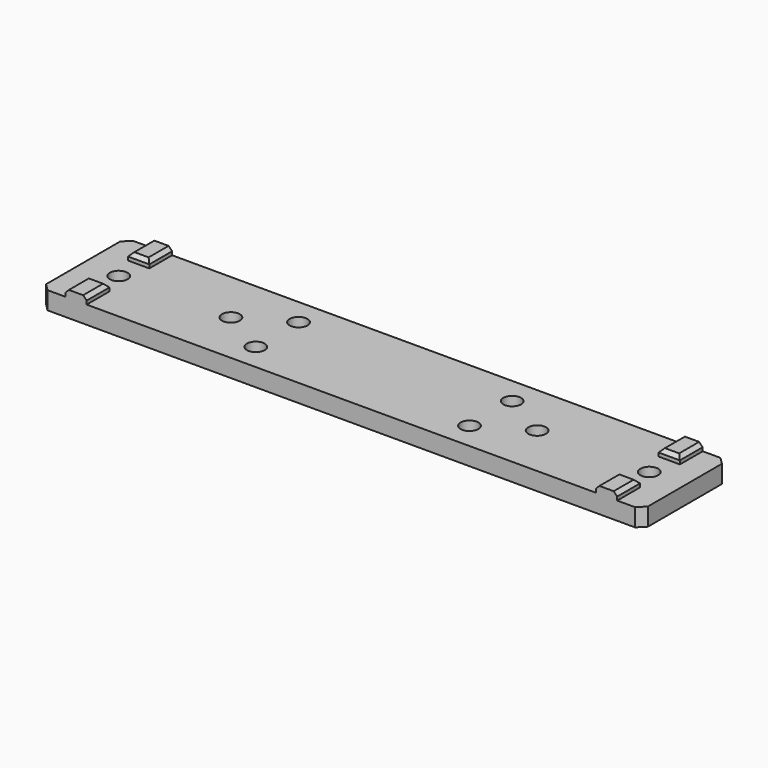
from build123d import *

# Parameters (mm, degrees)
F0_R     = 2.5
F0_R_2   = 4
F1_DEPTH = 5
F0_W     = 6
F0_H     = 8
F2_DEPTH = 7
F3_SIZE  = 1
F4_DEPTH = 5
F5_SIZE  = 2


with BuildPart() as f1:
    # F0 (on Top) → F1 (new body)
    with BuildSketch(Plane.XY):
        Polygon((-77.5, 15), (-84.5, 15), (-84.5, -15), (-77.5, -15), (-77.5, -7), (-71.5, -7), (-71.5, -15), (71.5, -15), (71.5, -7), (77.5, -7), (77.5, -15), (84.5, -15), (84.5, 15), (77.5, 15), (77.5, 7), (71.5, 7), (71.5, 15), (-71.5, 15), (-71.5, 7), (-77.5, 7), align=None)
        with Locations((-30, -7.5)):
            Circle(F0_R, mode=Mode.SUBTRACT)
        with Locations((30, -7.5)):
            Circle(F0_R, mode=Mode.SUBTRACT)
        with Locations((-74.5, 0)):
            Circle(F0_R, mode=Mode.SUBTRACT)
        with Locations((-43, 0)):
            Circle(F0_R_2, mode=Mode.SUBTRACT)
        with Locations((-30, 7.5)):
            Circle(F0_R, mode=Mode.SUBTRACT)
        with Locations((43, 0)):
            Circle(F0_R_2, mode=Mode.SUBTRACT)
        with Locations((74.5, 0)):
            Circle(F0_R, mode=Mode.SUBTRACT)
        with Locations((30, 7.5)):
            Circle(F0_R, mode=Mode.SUBTRACT)
        with Locations((-43, 0)):
            Circle(F0_R_2)
        with Locations((-43, 0)):
            Circle(F0_R, mode=Mode.SUBTRACT)
        with Locations((43, 0)):
            Circle(F0_R_2)
        with Locations((43, 0)):
            Circle(F0_R, mode=Mode.SUBTRACT)
    extrude(amount=F1_DEPTH)

    # F0 (on Top) → F2 (join)
    with BuildSketch(Plane.XY):
        with Locations((-74.5, 11)):
            Rectangle(F0_W, F0_H)
        with Locations((-74.5, -11)):
            Rectangle(F0_W, F0_H)
        with Locations((74.5, -11)):
            Rectangle(F0_W, F0_H)
        with Locations((74.5, 11)):
            Rectangle(F0_W, F0_H)
    extrude(amount=F2_DEPTH)

    # F3
    f3_edges = [f1.edges().sort_by_distance(p)[0] for p in [
        (-77.5, 11, 7),
        (-71.5, 11, 7),
        (-74.5, 7, 7),
        (-74.5, -7, 7),
        (-71.5, -11, 7),
        (-77.5, -11, 7),
        (77.5, 11, 7),
        (74.5, 7, 7),
        (71.5, 11, 7),
        (74.5, -7, 7),
        (77.5, -11, 7),
        (71.5, -11, 7),
    ]]
    chamfer(f3_edges, length=F3_SIZE)

    # F0 (on Top) → F4 (join)
    with BuildSketch(Plane.XY):
        with Locations((43, 0)):
            Circle(F0_R_2)
        with Locations((43, 0)):
            Circle(F0_R, mode=Mode.SUBTRACT)
        with Locations((-43, 0)):
            Circle(F0_R_2)
        with Locations((-43, 0)):
            Circle(F0_R, mode=Mode.SUBTRACT)
    extrude(amount=-F4_DEPTH)

    # F5
    f5_edges = [f1.edges().sort_by_distance(p)[0] for p in [
        (-84.5, -15, 2.5),
        (-84.5, 15, 2.5),
        (84.5, -15, 2.5),
        (84.5, 15, 2.5),
    ]]
    chamfer(f5_edges, length=F5_SIZE)


solid = f1.part
